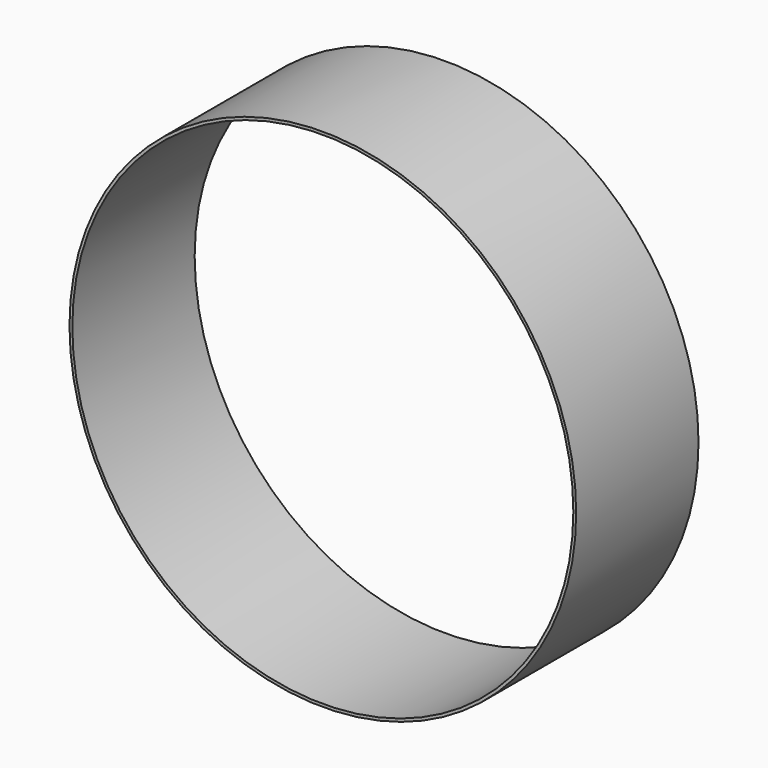
from build123d import *

# Parameters (mm, degrees)
F0_R        = 137.5
F0_R_2      = 135.962401
F1_DEPTH    = 3
F1_FACE_R   = 137.5
F1_FACE_R_2 = 135.962401
F2_DEPTH    = 80


with BuildPart() as f1:
    # F0 (on Front) → F1 (new body)
    with BuildSketch(Plane.XZ):
        Circle(F0_R)
        Circle(F0_R_2, mode=Mode.SUBTRACT)
    extrude(amount=F1_DEPTH)

    # F1_face (on face) → F2 (join)
    with BuildSketch(Plane.XZ.offset(3)):
        Circle(F1_FACE_R)
        Circle(F1_FACE_R_2, mode=Mode.SUBTRACT)
        Circle(F1_FACE_R)
        Circle(F1_FACE_R_2, mode=Mode.SUBTRACT)
    extrude(amount=F2_DEPTH)


solid = f1.part
